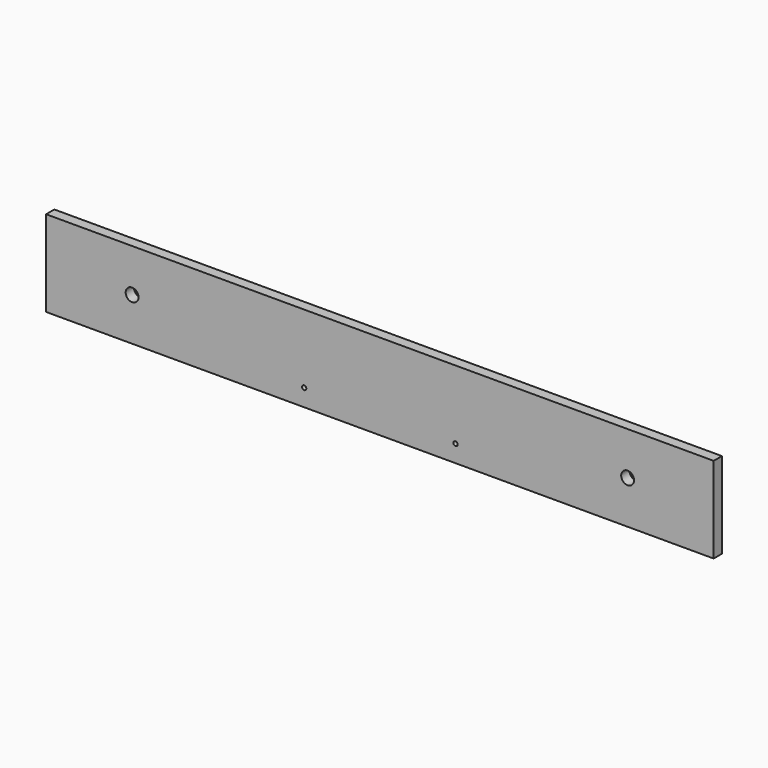
from build123d import *

# Parameters (mm, degrees)
F0_W     = 776
F0_H     = 100
F1_DEPTH = 12
F3_D     = 15
F5_D     = 5


with BuildPart() as f1:
    # F0 (on Front) → F1 (new body)
    with BuildSketch(Plane.XZ):
        with Locations((388, -50)):
            Rectangle(F0_W, F0_H)
    extrude(amount=-F1_DEPTH)

    # F3 (through all)
    with Locations(Plane.XZ):
        with Locations((100, -50), (676, -50)):
            Hole(F3_D / 2)

    # F5 (through all)
    with Locations(Plane.XZ):
        with Locations((300, -80), (476, -80)):
            Hole(F5_D / 2)


solid = f1.part
